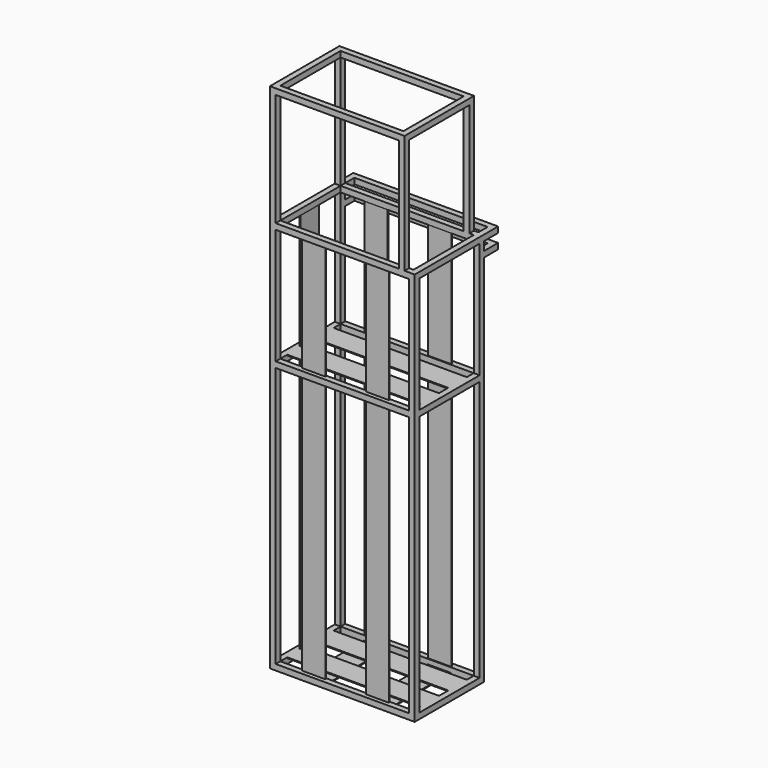
from build123d import *

# Parameters (mm, degrees)
F0_W      = 500
F0_H      = 300
F0_W_2    = 460
F0_H_2    = 260
F1_DEPTH  = 20
F2_W      = 80
F2_H      = 3
F3_DEPTH  = 260
F4_W      = 80
F4_H      = 3
F5_DEPTH  = 460
F6_W      = 20
F6_H      = 20
F7_DEPTH  = 1340
F8_W      = 20
F8_H      = 20
F9_DEPTH  = 460
F10_W     = 20
F10_H     = 20
F11_DEPTH = 260
F12_W     = 20
F12_H     = 20
F13_DEPTH = 460
F14_W     = 3
F14_H     = 80
F15_DEPTH = 900
F16_W     = 80
F16_H     = 3
F17_DEPTH = 900
F18_W     = 80
F18_H     = 3
F19_DEPTH = 900
F20_W     = 20
F20_H     = 20
F21_DEPTH = 460
F22_W     = 20
F22_H     = 20
F23_DEPTH = 260
F24_W     = 20
F24_H     = 20
F25_DEPTH = 460
F26_W     = 80
F26_H     = 3
F27_DEPTH = 460
F28_W     = 3
F28_H     = 80
F29_DEPTH = 400
F30_W     = 80
F30_H     = 3
F31_DEPTH = 400
F32_W     = 80
F32_H     = 3
F33_DEPTH = 400
F34_W     = 20
F34_H     = 20
F35_DEPTH = 60
F36_W     = 20
F36_H     = 20
F37_DEPTH = 460
F38_W     = 20
F38_H     = 20
F39_DEPTH = 410
F40_W     = 20
F40_H     = 20
F41_DEPTH = 260
F42_W     = 20
F42_H     = 20
F42_W_2   = 19.9999999999
F43_DEPTH = 425
F44_W     = 20
F44_H     = 20
F45_DEPTH = 260
F46_W     = 20
F46_H     = 20
F47_DEPTH = 460


with BuildPart() as f1:
    # F0 (on Top) → F1 (new body)
    with BuildSketch(Plane.XY):
        with Locations((-19.6381509304, -23.2981824888)):
            Rectangle(F0_W, F0_H)
        with Locations((-19.6381509304, -23.2981824888)):
            Rectangle(F0_W_2, F0_H_2, mode=Mode.SUBTRACT)
    extrude(amount=F1_DEPTH)

    # F2 (on face) → F3 (join, through all)
    with BuildSketch(Plane.XZ.offset(-106.7018175112)):
        with Locations((-129.6381509304, 1.5)):
            Rectangle(F2_W, F2_H)
        with Locations((90.3618490696, 1.5)):
            Rectangle(F2_W, F2_H)
    extrude(amount=F3_DEPTH)

    # F4 (on face) → F5 (join, through all)
    with BuildSketch(Plane(origin=(210.3618490696, 0, 0), x_dir=(0, -1, 0), z_dir=(-1, 0, 0))):
        with Locations((-36.7018175112, 18.5)):
            Rectangle(F4_W, F4_H)
        with Locations((83.2981824888, 18.5)):
            Rectangle(F4_W, F4_H)
    extrude(amount=F5_DEPTH)

    # F6 (on face) → F7 (join)
    with BuildSketch(Plane.XY.offset(20)):
        with Locations((-259.6381509304, 116.7018175112)):
            Rectangle(F6_W, F6_H)
        with Locations((-259.6381509304, -163.2981824888)):
            Rectangle(F6_W, F6_H)
        with Locations((220.3618490696, -163.2981824888)):
            Rectangle(F6_W, F6_H)
        with Locations((220.3618490696, 116.7018175112)):
            Rectangle(F6_W, F6_H)
    extrude(amount=F7_DEPTH)

    # F8 (on face) → F9 (join, through all)
    with BuildSketch(Plane(origin=(210.3618490696, 0, 0), x_dir=(0, -1, 0), z_dir=(-1, 0, 0))):
        with Locations((163.2981824888, 930)):
            Rectangle(F8_W, F8_H)
    extrude(amount=F9_DEPTH)

    # F10 (on face) → F11 (join, through all)
    with BuildSketch(Plane(origin=(0, -153.2981824888, 0), x_dir=(-1, 0, 0), z_dir=(0, 1, 0))):
        with Locations((259.6381509304, 930)):
            Rectangle(F10_W, F10_H)
        with Locations((-220.3618490696, 930)):
            Rectangle(F10_W, F10_H)
    extrude(amount=F11_DEPTH)

    # F12 (on face) → F13 (join, through all)
    with BuildSketch(Plane.YZ.offset(-249.6381509304)):
        with Locations((116.7018175112, 930)):
            Rectangle(F12_W, F12_H)
    extrude(amount=F13_DEPTH)

    # F14 (on face) → F15 (join, through all)
    with BuildSketch(Plane.XY.offset(20)):
        with Locations((-254.1381509304, -23.2981824888)):
            Rectangle(F14_W, F14_H)
    extrude(amount=F15_DEPTH)

    # F16 (on face) → F17 (join, through all)
    with BuildSketch(Plane.XY.offset(20)):
        with Locations((90.3618490696, 111.2018175112)):
            Rectangle(F16_W, F16_H)
        with Locations((-129.6381509304, 111.2018175112)):
            Rectangle(F16_W, F16_H)
    extrude(amount=F17_DEPTH)

    # F18 (on face) → F19 (join, through all)
    with BuildSketch(Plane.XY.offset(20)):
        with Locations((-129.6381509304, -157.7981824888)):
            Rectangle(F18_W, F18_H)
        with Locations((90.3618490696, -157.7981824888)):
            Rectangle(F18_W, F18_H)
    extrude(amount=F19_DEPTH)

    # F20 (on face) → F21 (join, through all)
    with BuildSketch(Plane(origin=(210.3618490696, 0, 0), x_dir=(0, -1, 0), z_dir=(-1, 0, 0))):
        with Locations((163.2981824888, 1350)):
            Rectangle(F20_W, F20_H)
    extrude(amount=F21_DEPTH)

    # F22 (on face) → F23 (join, through all)
    with BuildSketch(Plane(origin=(0, -153.2981824888, 0), x_dir=(-1, 0, 0), z_dir=(0, 1, 0))):
        with Locations((-220.3618490696, 1350)):
            Rectangle(F22_W, F22_H)
        with Locations((259.6381509304, 1350)):
            Rectangle(F22_W, F22_H)
    extrude(amount=F23_DEPTH)

    # F24 (on face) → F25 (join, through all)
    with BuildSketch(Plane(origin=(210.3618490696, 0, 0), x_dir=(0, -1, 0), z_dir=(-1, 0, 0))):
        with Locations((-116.7018175112, 1350)):
            Rectangle(F24_W, F24_H)
    extrude(amount=F25_DEPTH)

    # F26 (on face) → F27 (join, through all)
    with BuildSketch(Plane.YZ.offset(-249.6381509304)):
        with Locations((-83.2981824888, 938.5)):
            Rectangle(F26_W, F26_H)
        with Locations((36.7018175112, 938.5)):
            Rectangle(F26_W, F26_H)
    extrude(amount=F27_DEPTH)

    # F28 (on face) → F29 (join, through all)
    with BuildSketch(Plane.XY.offset(940)):
        with Locations((-254.1381509304, -23.2981824888)):
            Rectangle(F28_W, F28_H)
    extrude(amount=F29_DEPTH)

    # F30 (on face) → F31 (join, through all)
    with BuildSketch(Plane.XY.offset(940)):
        with Locations((90.3618490696, -157.7981824888)):
            Rectangle(F30_W, F30_H)
        with Locations((-129.6381509304, -157.7981824888)):
            Rectangle(F30_W, F30_H)
    extrude(amount=F31_DEPTH)

    # F32 (on face) → F33 (join, through all)
    with BuildSketch(Plane.XY.offset(940)):
        with Locations((90.3618490696, 111.2018175112)):
            Rectangle(F32_W, F32_H)
        with Locations((-129.6381509304, 111.2018175112)):
            Rectangle(F32_W, F32_H)
    extrude(amount=F33_DEPTH)

    # F34 (on face) → F35 (join)
    with BuildSketch(Plane(origin=(0, 126.7018175112, 0), x_dir=(-1, 0, 0), z_dir=(0, 1, 0))):
        with Locations((-220.3618490696, 1350)):
            Rectangle(F34_W, F34_H)
        with Locations((259.6381509304, 1350)):
            Rectangle(F34_W, F34_H)
        with Locations((-220.3618490696, 1300)):
            Rectangle(F34_W, F34_H)
        with Locations((259.6381509304, 1300)):
            Rectangle(F34_W, F34_H)
    extrude(amount=F35_DEPTH)

    # F36 (on face) → F37 (join, through all)
    with BuildSketch(Plane(origin=(210.3618490696, 0, 0), x_dir=(0, -1, 0), z_dir=(-1, 0, 0))):
        with Locations((-176.7018175112, 1350)):
            Rectangle(F36_W, F36_H)
    extrude(amount=F37_DEPTH)

    # F38 (on face) → F39 (join)
    with BuildSketch(Plane.XY.offset(1360)):
        with Locations((-259.6381509304, -163.2981824888)):
            Rectangle(F38_W, F38_H)
        with Locations((-259.6381509304, 116.7018175112)):
            Rectangle(F38_W, F38_H)
        with Locations((185.3618490696, 116.7018175112)):
            Rectangle(F38_W, F38_H)
        with Locations((185.3618490696, -163.2981824888)):
            Rectangle(F38_W, F38_H)
    extrude(amount=F39_DEPTH)

    # F40 (on face) → F41 (join, through all)
    with BuildSketch(Plane.XZ.offset(-106.7018175112)):
        with Locations((185.3618490696, 1760)):
            Rectangle(F40_W, F40_H)
    extrude(amount=F41_DEPTH)

    # F42 (on face) → F43 (join, through all)
    with BuildSketch(Plane(origin=(175.3618490696, 0, 0), x_dir=(0, -1, 0), z_dir=(-1, 0, 0))):
        with Locations((-116.7018175112, 1760)):
            Rectangle(F42_W, F42_H)
        with Locations((163.2981824889, 1760)):
            Rectangle(F42_W_2, F42_H)
    extrude(amount=F43_DEPTH)

    # F44 (on face) → F45 (join, through all)
    with BuildSketch(Plane.XZ.offset(-106.7018175112)):
        with Locations((-259.6381509304, 1760)):
            Rectangle(F44_W, F44_H)
    extrude(amount=F45_DEPTH)

    # F46 (on face) → F47 (join, through all)
    with BuildSketch(Plane(origin=(210.3618490696, 0, 0), x_dir=(0, -1, 0), z_dir=(-1, 0, 0))):
        with Locations((-176.7018175112, 1300)):
            Rectangle(F46_W, F46_H)
    extrude(amount=F47_DEPTH)


solid = f1.part
